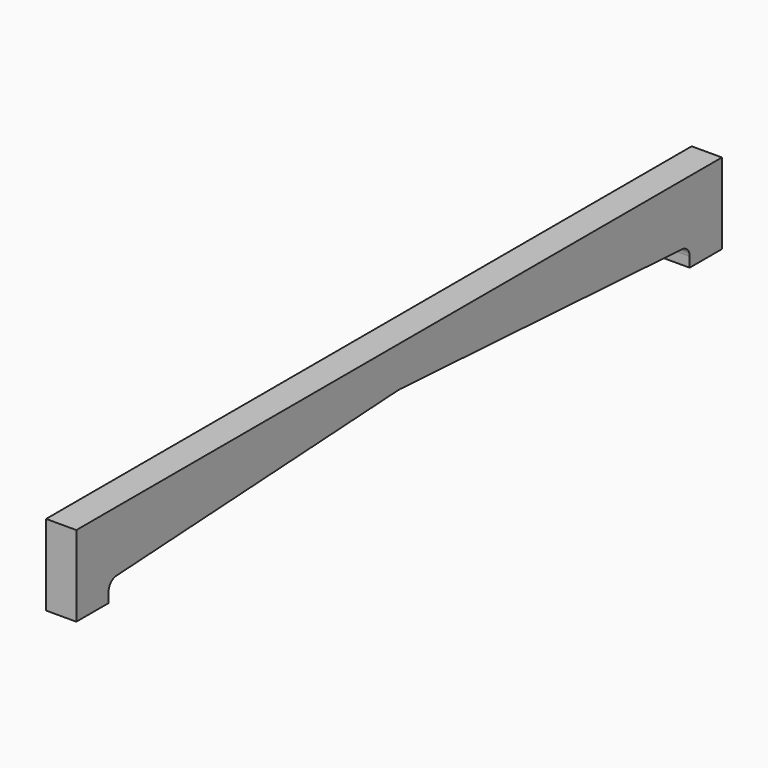
from build123d import *

# Parameters (mm, degrees)
F0_W     = 19.05
F0_H     = 50.8
F1_DEPTH = 254
F3_DEPTH = 19.051


with BuildPart() as f1:
    # F0 (on Front) → F1 (new body, symmetric)
    with BuildSketch(Plane.XZ):
        Rectangle(F0_W, F0_H)
    extrude(amount=F1_DEPTH, both=True)

    # F2 (on face) → F3 (cut, through all)
    with BuildSketch(Plane.YZ.offset(9.525)):
        with BuildLine():
            ThreePointArc((-0.725122, -0.020718), (-8.720119, -21.933067), (12.7, -12.7))
            ThreePointArc((12.7, -12.7), (9.233271, -3.980097), (0.725714, -0.020752))
            ThreePointArc((0.725714, -0.020752), (0.000296, 0), (-0.725122, -0.020718))
        make_face()
        with BuildLine():
            ThreePointArc((-215.9, -19.05), (-217.889941, -14.433466), (-222.612561, -12.710359))
            ThreePointArc((-222.612561, -12.710359), (-226.866534, -14.689941), (-228.6, -19.05))
            ThreePointArc((-228.6, -19.05), (-222.25, -25.4), (-215.9, -19.05))
        make_face()
        with BuildLine():
            ThreePointArc((228.6, -19.05), (226.740128, -14.559872), (222.25, -12.7))
            ThreePointArc((222.25, -12.7), (217.759872, -23.540128), (228.6, -19.05))
        make_face()
        with BuildLine():
            ThreePointArc((-215.9, -19.05), (-217.759872, -23.540128), (-222.25, -25.4))
            Line((-222.25, -25.4), (0, -25.4))
            ThreePointArc((0, -25.4), (-12.694819, -13.062709), (-0.725122, -0.020718))
            Line((-0.725122, -0.020718), (-222.612561, -12.710359))
            ThreePointArc((-222.612561, -12.710359), (-217.889941, -14.433466), (-215.9, -19.05))
        make_face()
        with BuildLine():
            ThreePointArc((12.7, -12.7), (8.980256, -21.680256), (0, -25.4))
            Line((0, -25.4), (222.25, -25.4))
            ThreePointArc((222.25, -25.4), (215.9, -19.05), (222.25, -12.7))
            Line((222.25, -12.7), (0.725714, -0.020752))
            ThreePointArc((0.725714, -0.020752), (9.233271, -3.980097), (12.7, -12.7))
        make_face()
        with BuildLine():
            Line((222.25, -25.4), (228.6, -25.4))
            Line((228.6, -25.4), (228.6, -19.05))
            ThreePointArc((228.6, -19.05), (226.740128, -23.540128), (222.25, -25.4))
        make_face()
        with BuildLine():
            Line((-228.6, -19.05), (-228.6, -25.4))
            Line((-228.6, -25.4), (-222.25, -25.4))
            ThreePointArc((-222.25, -25.4), (-226.740128, -23.540128), (-228.6, -19.05))
        make_face()
    extrude(amount=-F3_DEPTH, mode=Mode.SUBTRACT)


solid = f1.part
